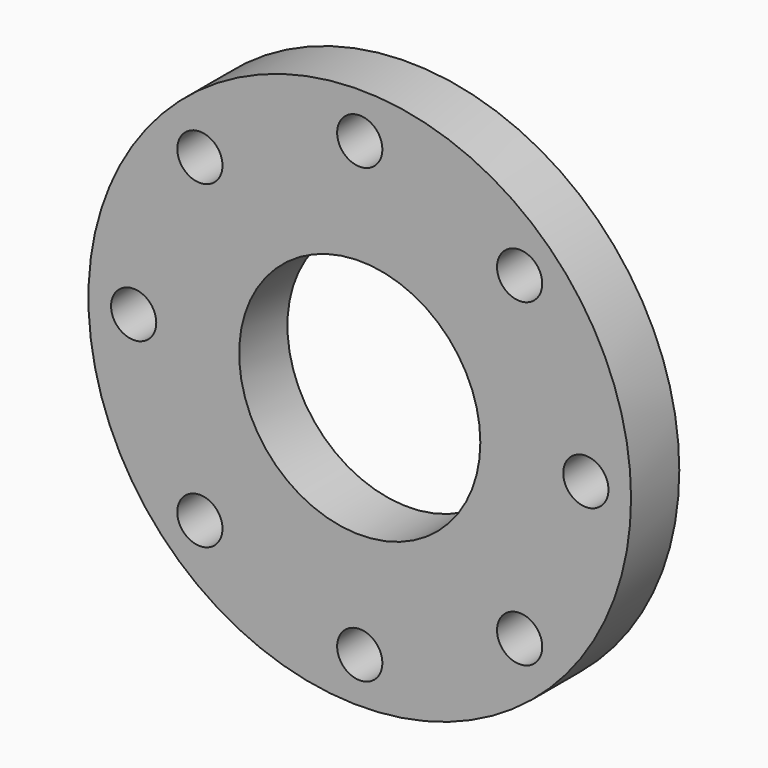
from build123d import *

# Parameters (mm, degrees)
F0_R     = 114.3
F0_R_2   = 50.8
F1_DEPTH = 25.4
F2_R     = 9.525
F3_DEPTH = 25.4


with BuildPart() as f1:
    # F0 (on Front) → F1 (new body)
    with BuildSketch(Plane.XZ):
        Circle(F0_R)
        Circle(F0_R_2, mode=Mode.SUBTRACT)
    extrude(amount=F1_DEPTH)

    # F2 (on face) → F3 (cut, through all)
    with BuildSketch(Plane.XZ.offset(25.4)):
        with Locations((0, 95.25)):
            Circle(F2_R)
        with Locations((-67.351921, 67.351921)):
            Circle(F2_R)
        with Locations((-95.25, 0)):
            Circle(F2_R)
        with Locations((-67.351921, -67.351921)):
            Circle(F2_R)
        with Locations((0, -95.25)):
            Circle(F2_R)
        with Locations((67.351921, -67.351921)):
            Circle(F2_R)
        with Locations((95.25, 0)):
            Circle(F2_R)
        with Locations((67.351921, 67.351921)):
            Circle(F2_R)
    extrude(amount=-F3_DEPTH, mode=Mode.SUBTRACT)


solid = f1.part
